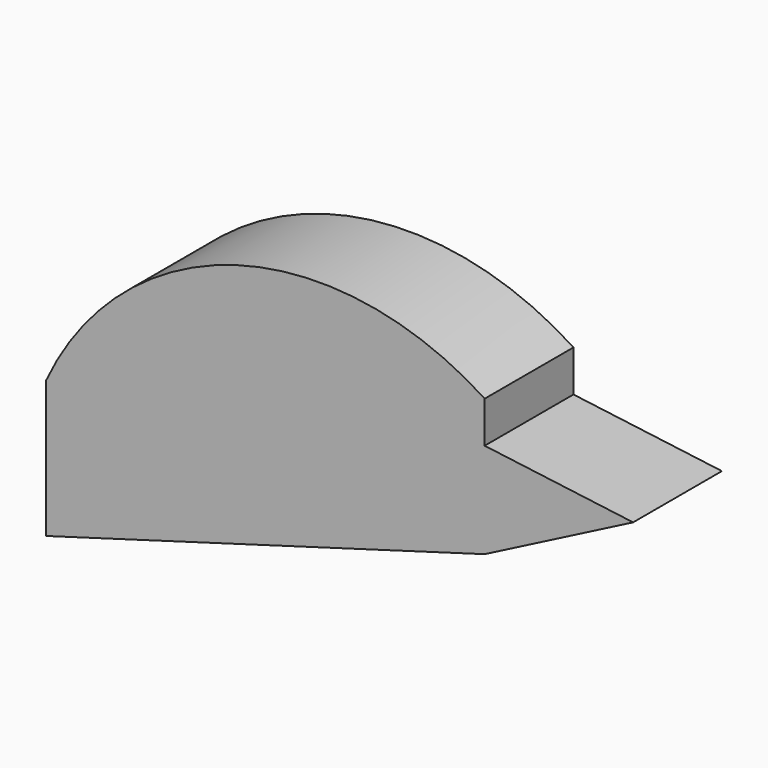
from build123d import *

# Parameters (mm, degrees)
F1_DEPTH = 25.4


with BuildPart() as f1:
    # F0 (on Front) → F1 (new body)
    with BuildSketch(Plane.XZ):
        with BuildLine():
            ThreePointArc((35.520576, 42.685743), (-21.290499, 51.125252), (-64.863667, 13.707306))
            Line((-64.863667, 13.707306), (35.520576, 42.685743))
        make_face()
        Polygon((35.520576, 42.685743), (-64.863667, 13.707306), (-64.863667, -17.625976), (35.520576, 11.352461), (35.520576, 33.201925), align=None)
        Polygon((69.496788, 28.813442), (35.520576, 33.201925), (35.520576, 11.352461), align=None)
    extrude(amount=F1_DEPTH)


solid = f1.part
